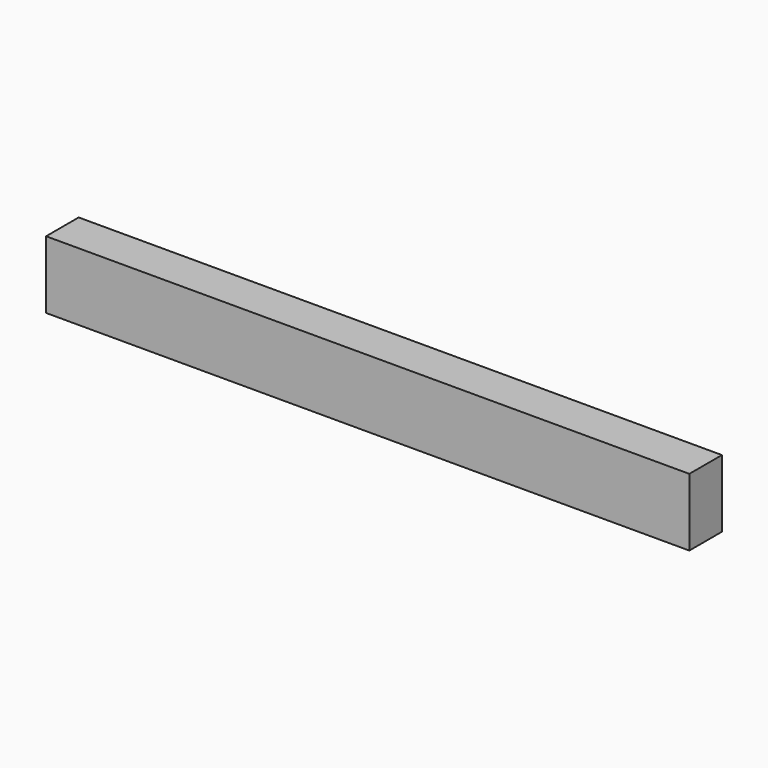
from build123d import *

# Parameters (mm, degrees)
SKETCH_W  = 38
SKETCH_H  = 63
PAD_DEPTH = 300


with BuildPart() as part:
    # Sketch → Pad (new body, symmetric)
    with BuildSketch(Plane.YZ):
        Rectangle(SKETCH_W, SKETCH_H)
    extrude(amount=PAD_DEPTH, both=True)


solid = part.part
